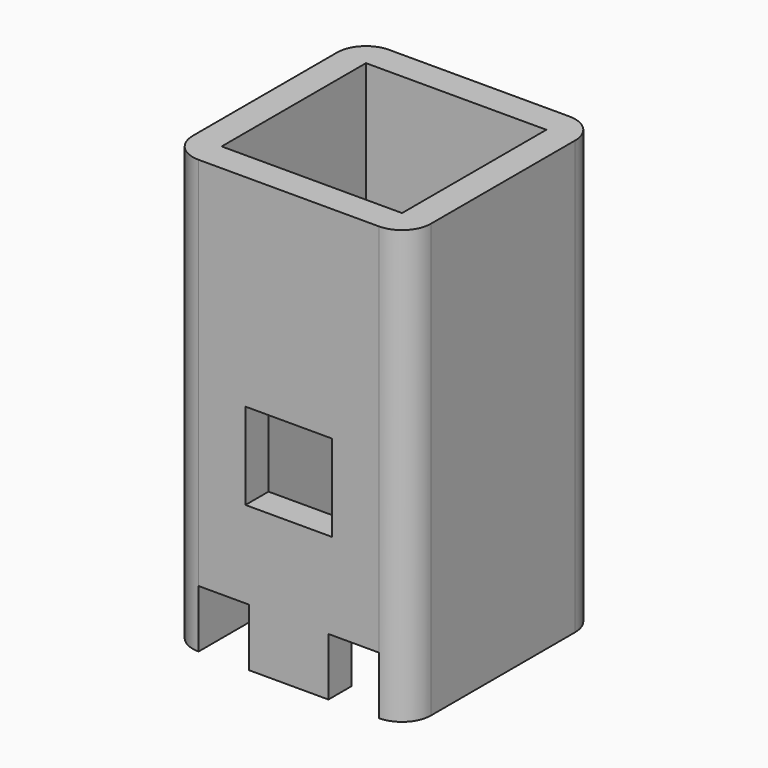
from build123d import *

# Parameters (mm, degrees)
SKETCH029_W          = 6.25
SKETCH029_H          = 6.25
PAD018_DEPTH         = 15
THICKNESS005_T       = 1
SKETCH030_W          = 1.75
SKETCH030_H          = 2
SKETCH030_W_2        = 3
SKETCH030_H_2        = 3
POCKET006_DEPTH      = 1.126
POCKET006_DEPTH_BACK = 7.126


with BuildPart() as part:
    # Sketch029 → Pad018 (new body)
    with BuildSketch(Plane.XY):
        Rectangle(SKETCH029_W, SKETCH029_H)
    extrude(amount=PAD018_DEPTH)

    # Thickness005
    thickness005_openings = [part.faces().sort_by_distance(p)[0] for p in [
        (0, 0, 15),
        (0, 0, 0),
    ]]
    offset(amount=THICKNESS005_T, openings=thickness005_openings)

    # Sketch030 → Pocket006 (cut, two sides)
    with BuildSketch(Plane.XZ.offset(3)) as pocket006_sk:
        with Locations((-2.25, 1)):
            Rectangle(SKETCH030_W, SKETCH030_H)
        with Locations((2.25, 1)):
            Rectangle(SKETCH030_W, SKETCH030_H)
        with Locations((0, 6.5)):
            Rectangle(SKETCH030_W_2, SKETCH030_H_2)
    extrude(amount=POCKET006_DEPTH, mode=Mode.SUBTRACT)
    extrude(pocket006_sk.sketch, amount=-POCKET006_DEPTH_BACK, mode=Mode.SUBTRACT)


solid = part.part
